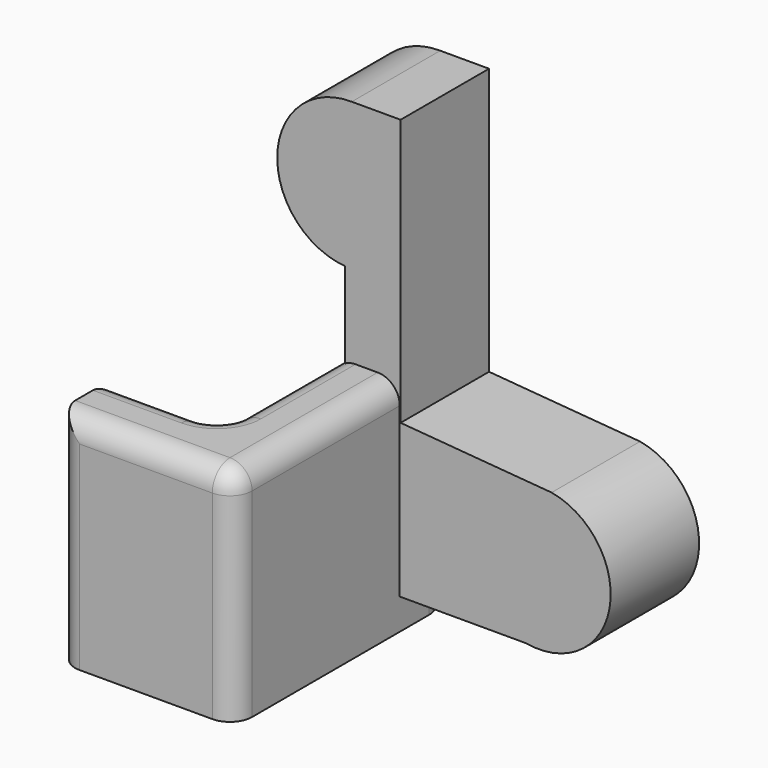
from build123d import *

# Parameters (mm, degrees)
EXTRUDE003_DEPTH                  = 10
FILLET021_R                       = 1
EXTRUDE004_DEPTH                  = 5
PART_MIRRORING006_PLACEMENT_ANGLE = 180


with BuildPart() as fillet021:
    # Sketch005 → Extrude003 (new body)
    with BuildSketch(Plane.XY):
        Polygon((57.709053, -19.346786), (57.709053, -22.346786), (65.709053, -22.346786), (65.709053, -10.346786), (62.709053, -10.346786), (62.709053, -19.346786), align=None)
    extrude(amount=EXTRUDE003_DEPTH)


with BuildPart() as fillet021_1:
    # Extrude003 placement: moved
    add(fillet021.part.moved(Location((0, 0, -14))))

    # Fillet021
    fillet021_edges = [fillet021_1.edges().sort_by_distance(p)[0] for p in [
        (57.709053, -19.346786, -9),
        (57.709053, -22.346786, -9),
        (65.709053, -22.346786, -9),
        (61.709053, -22.346786, -4),
        (65.709053, -10.346786, -9),
        (65.709053, -16.346786, -4),
        (62.709053, -10.346786, -9),
        (64.209053, -10.346786, -4),
        (62.709053, -19.346786, -9),
        (62.709053, -14.846786, -4),
        (60.209053, -19.346786, -4),
    ]]
    fillet(fillet021_edges, radius=FILLET021_R)


with BuildPart() as fillet021_2:
    # Fillet021 placement: moved
    add(fillet021_1.part.moved(Location((0, 0, 0.4))))


with BuildPart() as extrude004:
    # Sketch006 → Extrude004 (new body)
    with BuildSketch(Plane.XZ):
        with BuildLine():
            ThreePointArc((14.771842, 0.154152), (17.827348, 3.62591), (14.461083, 6.797264))
            Line((14.461083, 6.797264), (12.252875, 6.797264))
            Line((12.252875, -5.267611), (12.252875, 6.797264))
            Line((5.422805, -5.82309), (12.252875, -5.267611))
            ThreePointArc((5.422805, -5.82309), (2.802341, -9.576998), (6.556249, -12.197462))
            Line((6.556249, -12.197462), (14.771842, -12.197462))
            Line((14.771842, -12.197462), (14.771842, 0.154152))
        make_face()
    extrude(amount=EXTRUDE004_DEPTH)


with BuildPart() as extrude004_1:
    # Extrude004 placement: moved
    add(extrude004.part.moved(Location((0, -8, 0))))


with BuildPart() as c4holds003:
    # Part__Mirroring006: instance of Extrude004
    add(extrude004_1.part.mirror(Plane(origin=(0, 0, 0), x_dir=(0, 1, 0), z_dir=(0, 0, 1))))


with BuildPart() as c4holds003_1:
    # Part__Mirroring006 placement: moved
    add(c4holds003.part.moved(Location((78, 0, 0))).rotate(Axis((78, 0, 0), (0, 1, 0)), PART_MIRRORING006_PLACEMENT_ANGLE))

    # Fusion041: union Fillet021
    add(fillet021_2.part)


solid = c4holds003_1.part
